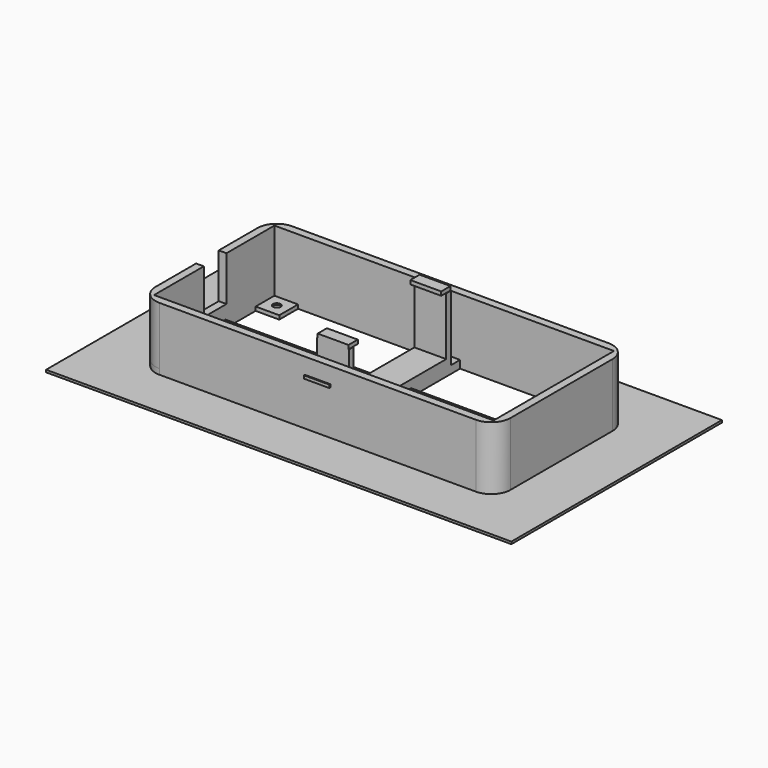
from build123d import *

# Parameters (mm, degrees)
F0_W      = 92
F0_H      = 42.9992415011
F0_W_2    = 39.8767858334
F0_H_2    = 7.2647114284
F0_W_3    = 8.2464283332
F0_H_3    = 15.8676442858
F1_DEPTH  = 2
F2_W      = 8.2464283332
F2_H      = 1.5
F3_DEPTH  = 17
F4_DEPTH  = 17
F6_DEPTH  = 2
F7_W      = 8
F7_H      = 3
F8_DEPTH  = 1
F10_W     = 8
F10_H     = 8
F11_DEPTH = 1
F9_W      = 8
F9_H      = 8
F12_DEPTH = 1
F13_W     = 8
F13_H     = 8
F14_DEPTH = 1
F15_W     = 8
F15_H     = 8
F16_DEPTH = 1
F17_W     = 92
F17_H     = 42.9992415011
F18_DEPTH = 15
F20_D     = 2
F20_DEPTH = 12
F20_TIP   = 0.600860619
F22_D     = 2
F22_DEPTH = 12
F22_TIP   = 0.600860619
F24_D     = 2
F24_DEPTH = 12
F24_TIP   = 0.600860619
F26_D     = 2
F26_DEPTH = 12
F26_TIP   = 0.600860619
F27_W     = 7.3435585946
F27_H     = 11.5889557712
F28_DEPTH = 3
F29_W     = 6.5705534071
F29_H     = 0.7730051875
F30_DEPTH = 0.3
F31_W     = 6.048291456
F31_H     = 0.9969957173
F32_DEPTH = 0.3
F33_R     = 5
F34_R     = 5
F35_R     = 5
F36_R     = 5
F37_W     = 120.588965714
F37_H     = 68.2177916169
F38_DEPTH = 0.6
F39_DEPTH = 25


with BuildPart() as f1:
    # F0 (on Top) → F1 (new body)
    with BuildSketch(Plane.XY):
        Rectangle(F0_W, F0_H)
        Polygon((-44, 3.6323557142), (-44, 19.5), (-4.1232141666, 19.5), (4.1232141666, 19.5), (44, 19.5), (44, 3.6323557142), (44, -3.6323557142), (44, -19.5), (4.1232141666, -19.5), (-4.1232141666, -19.5), (-44, -19.5), (-44, -3.6323557142), align=None, mode=Mode.SUBTRACT)
        with Locations((-24.0616070833, 0)):
            Rectangle(F0_W_2, F0_H_2)
        with Locations((24.0616070833, 0)):
            Rectangle(F0_W_2, F0_H_2)
        with Locations((0, -11.5661778571)):
            Rectangle(F0_W_3, F0_H_3)
        with Locations((0, 11.5661778571)):
            Rectangle(F0_W_3, F0_H_3)
        Rectangle(F0_W_3, F0_H_2)
    extrude(amount=F1_DEPTH)

    # F2 (on face) → F3 (join)
    with BuildSketch(Plane.XY.offset(2)):
        with Locations((0, 15.75)):
            Rectangle(F2_W, F2_H)
    extrude(amount=F3_DEPTH)

    # F2 (on face) → F4 (join)
    with BuildSketch(Plane.XY.offset(2)):
        with Locations((0, -15.75)):
            Rectangle(F2_W, F2_H)
    extrude(amount=F4_DEPTH)

    # F5 (on face) → F6 (join)
    with BuildSketch(Plane.XY.offset(2)):
        Polygon((-4.1232141666, -3.6323557142), (-4.1232141666, -15), (4.1232141666, -15), (4.1232141666, -3.6323557142), (4.1232141666, 3.6323557142), (4.1232141666, 15), (-4.1232141666, 15), (-4.1232141666, 3.6323557142), align=None)
    extrude(amount=F6_DEPTH)

    # F7 (on face) → F8 (join)
    with BuildSketch(Plane.XY.offset(19)):
        with Locations((0, -15)):
            Rectangle(F7_W, F7_H)
        with Locations((0, 15.0357708335)):
            Rectangle(F7_W, F7_H)
    extrude(amount=F8_DEPTH)

    # F10 (on Top) → F11 (join)
    with BuildSketch(Plane.XY):
        with Locations((-41.8757377899, 17.4122615717)):
            Rectangle(F10_W, F10_H)
    extrude(amount=F11_DEPTH)

    # F9 (on Top) → F12 (join)
    with BuildSketch(Plane.XY):
        with Locations((-42, -17.4996207505)):
            Rectangle(F9_W, F9_H)
    extrude(amount=F12_DEPTH)

    # F13 (on Top) → F14 (join)
    with BuildSketch(Plane.XY):
        with Locations((41.91535397, 17.2840473242)):
            Rectangle(F13_W, F13_H)
    extrude(amount=F14_DEPTH)

    # F15 (on Top) → F16 (join)
    with BuildSketch(Plane.XY):
        with Locations((41.8707623184, -17.4904118329)):
            Rectangle(F15_W, F15_H)
    extrude(amount=F16_DEPTH)

    # F17 (on face) → F18 (join)
    with BuildSketch(Plane.XY.offset(2)):
        Rectangle(F17_W, F17_H)
        Polygon((4.1232141666, -19.5), (-4.1232141666, -19.5), (-44, -19.5), (-44, -3.6323557142), (-44, 3.6323557142), (-44, 19.5), (-4.1232141666, 19.5), (4.1232141666, 19.5), (44, 19.5), (44, 3.6323557142), (44, -3.6323557142), (44, -19.5), align=None, mode=Mode.SUBTRACT)
    extrude(amount=F18_DEPTH)

    # F20
    with Locations(Plane.XY.offset(1)):
        with Locations((-41, -16.4998103753)):
            Hole(F20_D / 2, depth=F20_DEPTH)
            with Locations((0, 0, -(F20_DEPTH + F20_TIP / 2))):  # 118° drill point
                Cone(0, F20_D / 2, F20_TIP, mode=Mode.SUBTRACT)

    # F22
    with Locations(Plane.XY.offset(1)):
        with Locations((-40.937868895, 16.4561307859)):
            Hole(F22_D / 2, depth=F22_DEPTH)
            with Locations((0, 0, -(F22_DEPTH + F22_TIP / 2))):  # 118° drill point
                Cone(0, F22_D / 2, F22_TIP, mode=Mode.SUBTRACT)

    # F24
    with Locations(Plane.XY.offset(1)):
        with Locations((40.957676985, 16.3920236621)):
            Hole(F24_D / 2, depth=F24_DEPTH)
            with Locations((0, 0, -(F24_DEPTH + F24_TIP / 2))):  # 118° drill point
                Cone(0, F24_D / 2, F24_TIP, mode=Mode.SUBTRACT)

    # F26
    with Locations(Plane.XY.offset(1)):
        with Locations((40.9353811592, -16.4952059165)):
            Hole(F26_D / 2, depth=F26_DEPTH)
            with Locations((0, 0, -(F26_DEPTH + F26_TIP / 2))):  # 118° drill point
                Cone(0, F26_D / 2, F26_TIP, mode=Mode.SUBTRACT)

    # F27 (on face) → F28 (cut)
    with BuildSketch(Plane(origin=(-46, 0, 0), x_dir=(0, -1, 0), z_dir=(-1, 0, 0))):
        with Locations((-0.289877411, 11.2055221144)):
            Rectangle(F27_W, F27_H)
    extrude(amount=-F28_DEPTH, mode=Mode.SUBTRACT)

    # F29 (on face) → F30 (join)
    with BuildSketch(Plane.XZ.offset(21.4996207505)):
        with Locations((0, 12.4647244811)):
            Rectangle(F29_W, F29_H)
    extrude(amount=F30_DEPTH)

    # F31 (on face) → F32 (join)
    with BuildSketch(Plane(origin=(0, 21.4996207505, 0), x_dir=(-1, 0, 0), z_dir=(0, 1, 0))):
        with Locations((0, 13.2352923974)):
            Rectangle(F31_W, F31_H)
    extrude(amount=F32_DEPTH)

    # F33
    f33_edges = [f1.edges().sort_by_distance(p)[0] for p in [
        (-46, -21.499621, 8.5),
    ]]
    fillet(f33_edges, radius=F33_R)

    # F34
    f34_edges = [f1.edges().sort_by_distance(p)[0] for p in [
        (46, -21.499621, 8.5),
    ]]
    fillet(f34_edges, radius=F34_R)

    # F35
    f35_edges = [f1.edges().sort_by_distance(p)[0] for p in [
        (46, 21.499621, 8.5),
    ]]
    fillet(f35_edges, radius=F35_R)

    # F36
    f36_edges = [f1.edges().sort_by_distance(p)[0] for p in [
        (-46, 21.499621, 8.5),
    ]]
    fillet(f36_edges, radius=F36_R)

    # F37 (on Top) → F38 (join)
    with BuildSketch(Plane.XY):
        Rectangle(F37_W, F37_H)
    extrude(amount=F38_DEPTH)

    # F39 (cut): faces of the model
    f39_faces = [f1.faces().sort_by_distance(p)[0] for p in [
        (-23.0397011823, -11.2685281209, 0.6),
        (-23.0049653202, 11.2600123957, 0.6),
        (22.9874600432, 11.2593805949, 0.6),
        (23.0186221767, -11.261509687, 0.6),
    ]]
    extrude(f39_faces, amount=-F39_DEPTH, mode=Mode.SUBTRACT)


solid = f1.part
